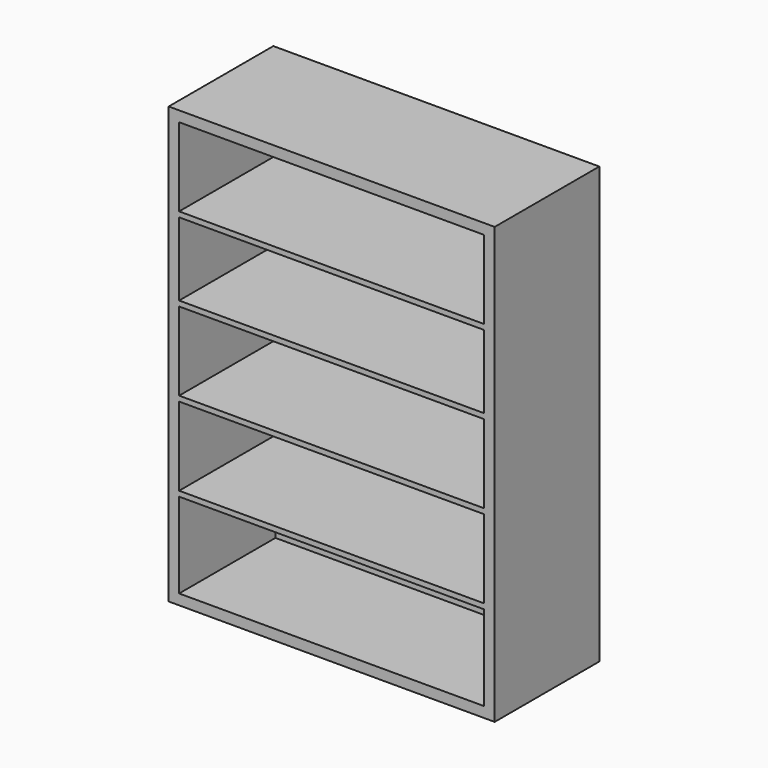
from build123d import *

# Parameters (mm, degrees)
F0_W     = 62.305648
F0_H     = 83.289184
F0_W_2   = 58.305648
F0_H_2   = 79.289184
F1_DEPTH = 25
F2_DEPTH = 2
F3_W     = 58.305648
F3_H     = 1
F4_DEPTH = 23


with BuildPart() as f1:
    # F0 (on Front) → F1 (new body)
    with BuildSketch(Plane.XZ):
        Rectangle(F0_W, F0_H)
        Rectangle(F0_W_2, F0_H_2, mode=Mode.SUBTRACT)
    extrude(amount=F1_DEPTH)

    # F0 (on Front) → F2 (join)
    with BuildSketch(Plane.XZ):
        Rectangle(F0_W_2, F0_H_2)
    extrude(amount=F2_DEPTH)

    # F3 (on face) → F4 (join)
    with BuildSketch(Plane.XZ.offset(2)):
        with Locations((0, 24.144592)):
            Rectangle(F3_W, F3_H)
        with Locations((0, 9.144592)):
            Rectangle(F3_W, F3_H)
        with Locations((0, -6.855408)):
            Rectangle(F3_W, F3_H)
        with Locations((0, -22.855408)):
            Rectangle(F3_W, F3_H)
    extrude(amount=F4_DEPTH)


solid = f1.part
